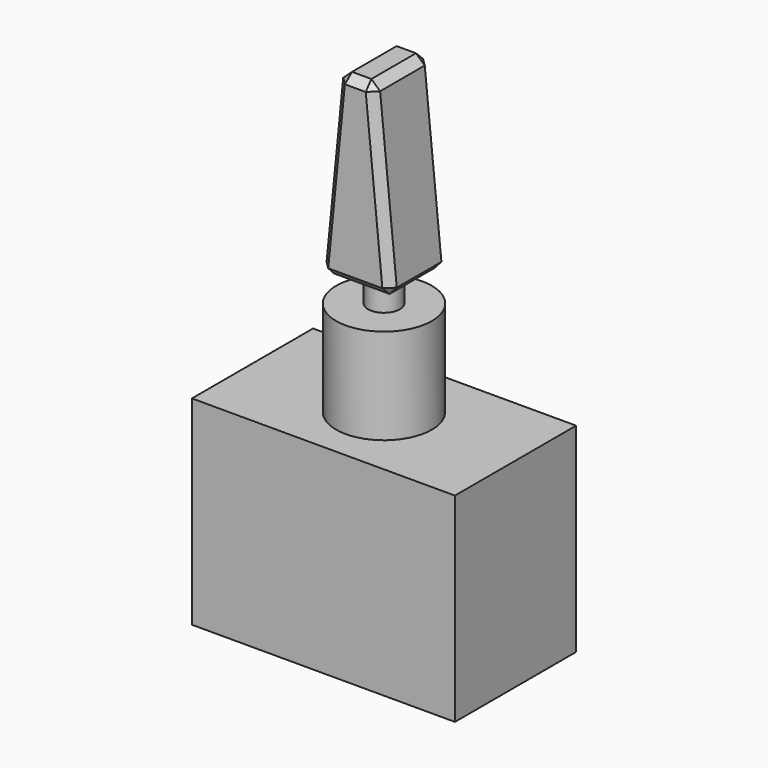
from build123d import *

# Parameters (mm, degrees)
SKETCH_W     = 33
SKETCH_H     = 19
PAD_DEPTH    = 25
SKETCH001_R  = 6
PAD001_DEPTH = 12
SKETCH002_R  = 2
PAD002_DEPTH = 3.6
SKETCH003_W  = 9
SKETCH003_H  = 9
PAD003_DEPTH = 23
POCKET_DEPTH = 13
CHAMFER_SIZE = 1


with BuildPart() as part:
    # Sketch → Pad (new body)
    with BuildSketch(Plane.XY):
        Rectangle(SKETCH_W, SKETCH_H)
    extrude(amount=PAD_DEPTH)

    # Sketch001 (on Face6 of Pad) → Pad001 (join)
    with BuildSketch(Plane.XY.offset(25)):
        Circle(SKETCH001_R)
    extrude(amount=PAD001_DEPTH)

    # Sketch002 (on Face8 of Pad001) → Pad002 (join)
    with BuildSketch(Plane.XY.offset(37)):
        Circle(SKETCH002_R)
    extrude(amount=PAD002_DEPTH)

    # Sketch003 (on Face10 of Pad002) → Pad003 (join)
    with BuildSketch(Plane.XY.offset(40.6)):
        Rectangle(SKETCH003_W, SKETCH003_H)
    extrude(amount=PAD003_DEPTH)

    # Sketch004 (on Face2 of Pad003) → Pocket (cut)
    with BuildSketch(Plane.XZ.offset(4.5)):
        Polygon((-4.5, 40.6), (-2.214518, 63.6), (-4.5, 63.6), align=None)
    pocket = extrude(amount=-POCKET_DEPTH, mode=Mode.SUBTRACT)

    # Mirrored: Pocket across Sketch004 V_Axis
    add(pocket.mirror(Plane(origin=(0, -4.5, 0), x_dir=(0, -1, 0), z_dir=(1, 0, 0))), mode=Mode.SUBTRACT)

    # Chamfer
    chamfer_edges = [part.edges().sort_by_distance(p)[0] for p in [
        (-3.357259, -4.5, 52.1),
        (0, -4.5, 40.6),
        (3.357259, -4.5, 52.1),
        (-4.5, 0, 40.6),
        (-3.357259, 4.5, 52.1),
        (3.357259, 4.5, 52.1),
        (0, 4.5, 40.6),
        (2.214518, 0, 63.6),
        (0, -4.5, 63.6),
        (-2.214518, 0, 63.6),
        (0, 4.5, 63.6),
        (4.5, 0, 40.6),
    ]]
    chamfer(chamfer_edges, length=CHAMFER_SIZE)


solid = part.part
